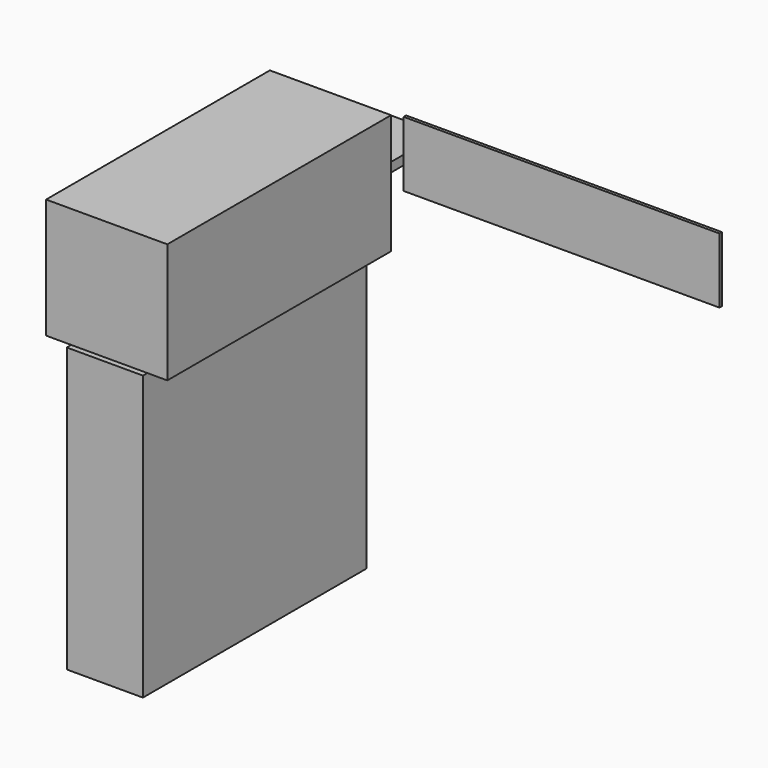
from build123d import *

# Parameters (mm, degrees)
F0_W     = 194.072149
F0_H     = 196.127132
F1_DEPTH = 21.636344
F3_DEPTH = 728.671312
F4_W     = 175.778807
F4_H     = 654.224575
F4_W_2   = 279.768556
F4_H_2   = 276.49638
F5_DEPTH = 645.498991


with BuildPart() as f1:
    # F0 (on Top) → F1 (new body)
    with BuildSketch(Plane.XY):
        with Locations((0.458945, 0.228219)):
            Rectangle(F0_W, F0_H)
    extrude(amount=-F1_DEPTH)

    # F2 (on face) → F3 (join)
    with BuildSketch(Plane.YZ.offset(97.495019)):
        Polygon((-7.093509, -73.806271), (0, 7.090414), (0, 76.829582), (-7.093509, 76.829582), (-7.093509, 0), align=None)
        Polygon((0.228219, -74.053243), (0, 7.090414), (-7.093509, -73.806271), align=None)
    extrude(amount=F3_DEPTH)

    # F4 (on face) → F5 (join)
    with BuildSketch(Plane.XZ.offset(97.835347)):
        with Locations((-3.027313, -480.814069)):
            Rectangle(F4_W, F4_H)
        with Locations((1.256913, -6.934181)):
            Rectangle(F4_W_2, F4_H_2)
    extrude(amount=F5_DEPTH)


solid = f1.part
